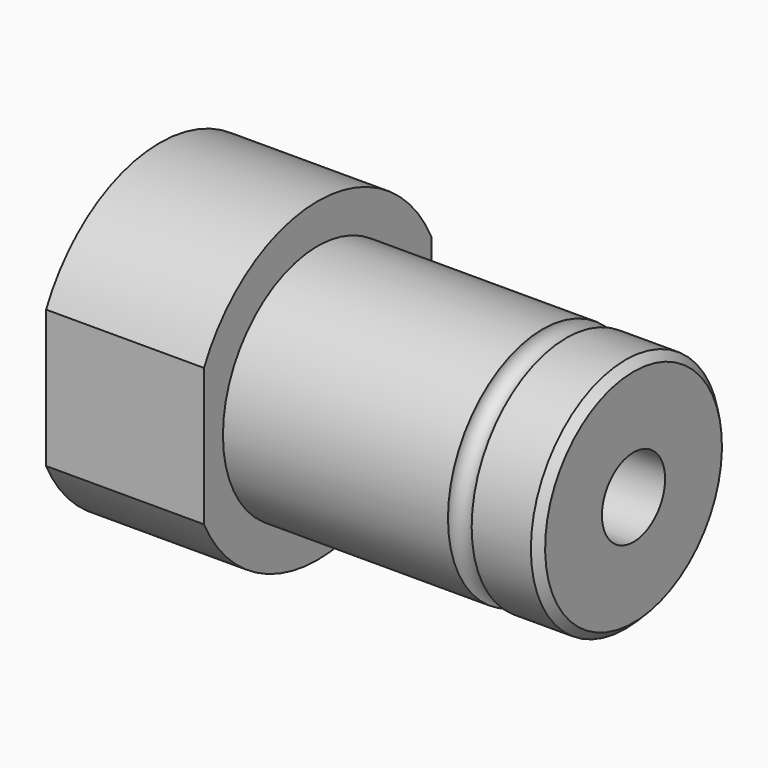
from build123d import *

# Parameters (mm, degrees)
F2_R     = 5
F3_DEPTH = 60
F4_SIZE  = 1
F6_DEPTH = 20
F7_DEPTH = 25


with BuildPart() as f1:
    # F0 (on Front) → F1 (revolve)
    with BuildSketch(Plane.XZ):
        with BuildLine():
            Line((-60, 0), (0, 0))
            Line((0, 0), (0, 15))
            Line((0, 15), (-8.5, 15))
            ThreePointArc((-8.5, 15), (-10, 13.5), (-11.5, 15))
            Line((-11.5, 15), (-40, 15))
            Line((-40, 15), (-40, 20))
            Line((-40, 20), (-60, 20))
            Line((-60, 20), (-60, 0))
        make_face()
    revolve(axis=Axis((-34.051096, 0, 0), (1, 0, 0)))

    # F2 (on face) → F3 (cut, through all)
    with BuildSketch(Plane(origin=(-60, 0, 0), x_dir=(0, -1, 0), z_dir=(-1, 0, 0))):
        Circle(F2_R)
    extrude(amount=-F3_DEPTH, mode=Mode.SUBTRACT)

    # F4
    f4_edges = [f1.edges().sort_by_distance(p)[0] for p in [
        (0, 0, -15),
    ]]
    chamfer(f4_edges, length=F4_SIZE)

    # F5 (on face) → F6 (cut, through all)
    with BuildSketch(Plane(origin=(-60, 0, 0), x_dir=(0, -1, 0), z_dir=(-1, 0, 0))):
        with BuildLine():
            Line((-18, -8.717798), (-18, 8.717798))
            ThreePointArc((-18, 8.717798), (-20, 0), (-18, -8.717798))
        make_face()
    extrude(amount=-F6_DEPTH, mode=Mode.SUBTRACT)

    # F5 (on face) → F7 (cut)
    with BuildSketch(Plane(origin=(-60, 0, 0), x_dir=(0, -1, 0), z_dir=(-1, 0, 0))):
        with BuildLine():
            ThreePointArc((20, 0), (19.493589, 4.472136), (18, 8.717798))
            Line((18, 8.717798), (18, -8.717798))
            ThreePointArc((18, -8.717798), (19.493589, -4.472136), (20, 0))
        make_face()
    extrude(amount=-F7_DEPTH, mode=Mode.SUBTRACT)


solid = f1.part
